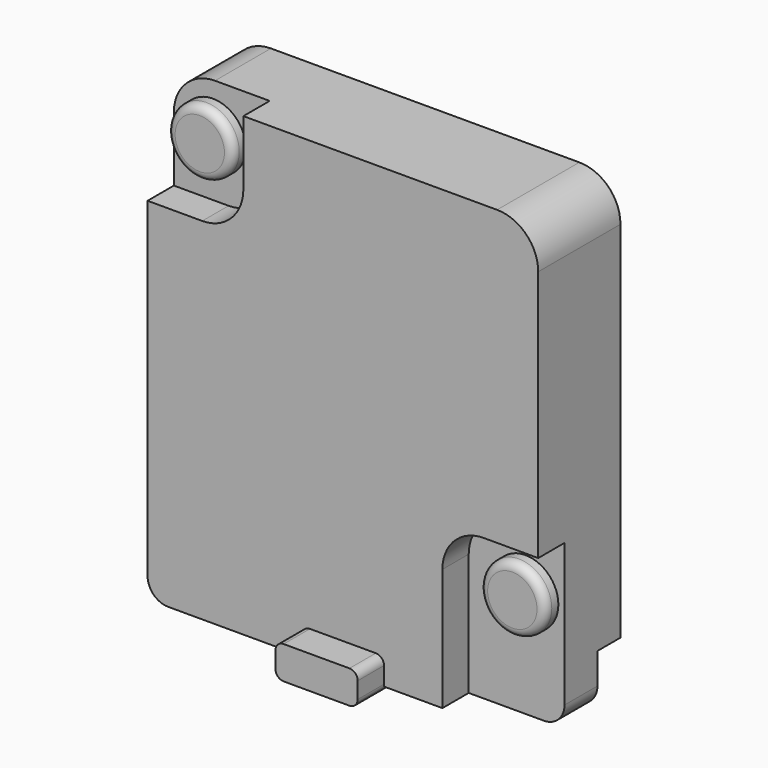
from build123d import *

# Parameters (mm, degrees)
SKETCH_W          = 9.5
SKETCH_H          = 11.1
PAD_DEPTH         = 2.5
POCKET_DEPTH      = 0.8
SKETCH002_R       = 0.8
PAD001_DEPTH      = 0.4
SKETCH003_R       = 0.8
PAD002_DEPTH      = 0.4
FILLET_R          = 0.2
SKETCH004_W       = 1.25
SKETCH004_H       = 0.7
POCKET001_DEPTH   = 9.5
FILLET001_R       = 1
FILLET002_R       = 0.5
PAD003_DEPTH      = 0.8
PAD003_DEPTH_BACK = 0.8


with BuildPart() as part:
    # Sketch → Pad (new body)
    with BuildSketch(Plane.XZ):
        with Locations((0, -0.7)):
            Rectangle(SKETCH_W, SKETCH_H)
    extrude(amount=PAD_DEPTH)

    # Sketch001 (on Face6 of Pad) → Pocket (cut)
    with BuildSketch(Plane.XZ.offset(2.5)):
        with BuildLine():
            Line((3.42, -2.28), (4.75, -2.28))
            Line((4.75, -2.28), (4.75, -6.25))
            Line((4.75, -6.25), (2.42, -6.25))
            Line((2.42, -6.25), (2.42, -3.28))
            ThreePointArc((3.42, -2.28), (2.712893, -2.572893), (2.42, -3.28))
        make_face()
        with BuildLine():
            Line((-4.75, 4.85), (-4.75, 2.28))
            Line((-4.75, 2.28), (-3.42, 2.28))
            ThreePointArc((-3.42, 2.28), (-2.712893, 2.572893), (-2.42, 3.28))
            Line((-2.42, 4.85), (-2.42, 3.28))
            Line((-4.75, 4.85), (-2.42, 4.85))
        make_face()
    extrude(amount=-POCKET_DEPTH, mode=Mode.SUBTRACT)

    # Sketch002 (on Face9 of Pocket) → Pad001 (join)
    with BuildSketch(Plane.XZ.offset(1.7)):
        with Locations((3.8, -3.65)):
            Circle(SKETCH002_R)
    extrude(amount=PAD001_DEPTH)

    # Sketch003 (on Face6 of Pad001) → Pad002 (join)
    with BuildSketch(Plane.XZ.offset(1.7)):
        with Locations((-3.8, 3.65)):
            Circle(SKETCH003_R)
    extrude(amount=PAD002_DEPTH)

    # Fillet
    fillet_edges = [part.edges().sort_by_distance(p)[0] for p in [
        (-4.6, -2.1, 3.65),
        (3, -2.1, -3.65),
    ]]
    fillet(fillet_edges, radius=FILLET_R)

    # Sketch004 (on Face13 of Fillet) → Pocket001 (cut)
    with BuildSketch(Plane(origin=(4.75, 0, 0), x_dir=(0, 0, 1), z_dir=(1, 0, 0))):
        with Locations((-5.625, 0.35)):
            Rectangle(SKETCH004_W, SKETCH004_H)
    extrude(amount=-POCKET001_DEPTH, mode=Mode.SUBTRACT)

    # Fillet001
    fillet001_edges = [part.edges().sort_by_distance(p)[0] for p in [
        (4.75, -1.25, 4.85),
        (-4.75, -0.85, 4.85),
    ]]
    fillet(fillet001_edges, radius=FILLET001_R)

    # Fillet002
    fillet002_edges = [part.edges().sort_by_distance(p)[0] for p in [
        (-4.75, -1.6, -6.25),
        (4.75, -1.2, -6.25),
    ]]
    fillet(fillet002_edges, radius=FILLET002_R)

    # Sketch005 (on Face5 of Fillet002) → Pad003 (join, two sides)
    with BuildSketch(Plane.XZ.offset(2.5)) as pad003_sk:
        with BuildLine():
            Line((-0.8, -5.6), (0.8, -5.6))
            ThreePointArc((1, -5.8), (0.941421, -5.658579), (0.8, -5.6))
            Line((1, -5.8), (1, -6.2))
            ThreePointArc((0.8, -6.4), (0.941421, -6.341421), (1, -6.2))
            Line((0.8, -6.4), (-0.8, -6.4))
            ThreePointArc((-1, -6.2), (-0.941421, -6.341421), (-0.8, -6.4))
            Line((-1, -6.2), (-1, -5.8))
            ThreePointArc((-0.8, -5.6), (-0.941421, -5.658579), (-1, -5.8))
        make_face()
    extrude(amount=PAD003_DEPTH)
    extrude(pad003_sk.sketch, amount=-PAD003_DEPTH_BACK)


solid = part.part
